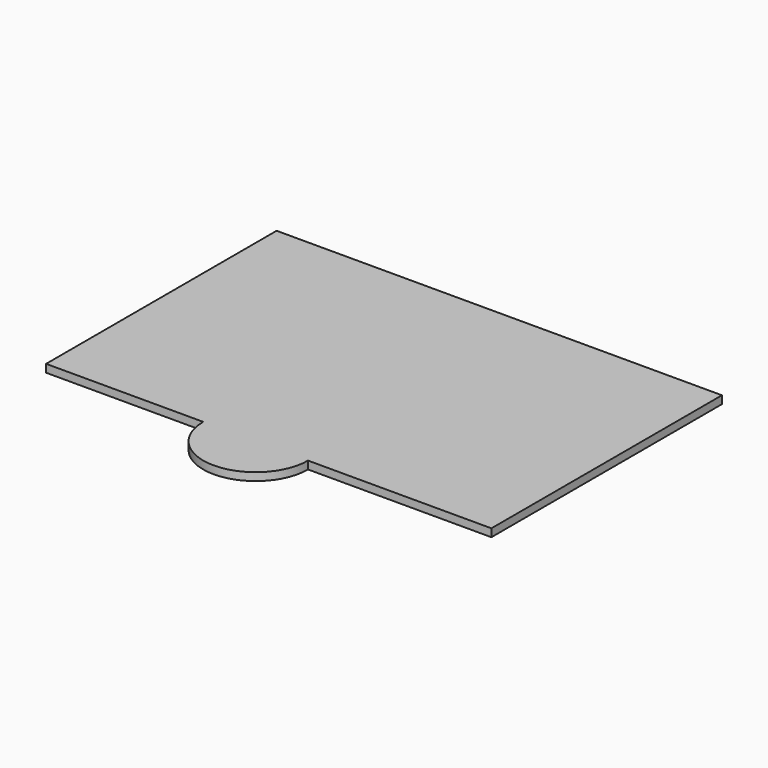
from build123d import *

# Parameters (mm, degrees)
CYLINDER_R     = 20
CYLINDER_DEPTH = 3
BOX002_W       = 170
BOX002_H       = 110
BOX002_DEPTH   = 3


with BuildPart() as cilindro:
    # Cylinder → Cylinder (new body)
    with BuildSketch(Plane(origin=(80, 0, 0), x_dir=(1, 0, 0), z_dir=(0, 0, 1))):
        Circle(CYLINDER_R)
    extrude(amount=CYLINDER_DEPTH)


with BuildPart() as obj1:
    # Box002 → Box002 (new body)
    with BuildSketch(Plane.XY):
        with Locations((85, 55)):
            Rectangle(BOX002_W, BOX002_H)
    extrude(amount=BOX002_DEPTH)

    # Fusion: union Cilindro
    add(cilindro.part)


with BuildPart() as obj1_1:
    # Fusion placement: moved
    add(obj1.part.moved(Location((5, -36, 5))))


solid = obj1_1.part
